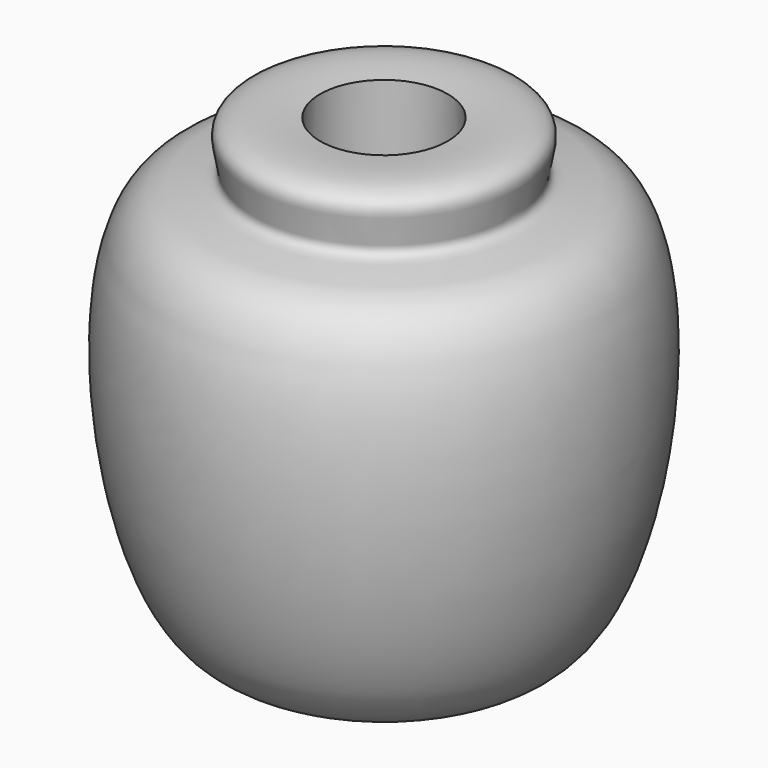
from build123d import *


with BuildPart() as f1:
    # F0 (on Front) → F1 (revolve)
    with BuildSketch(Plane.XZ):
        with BuildLine():
            add(Edge.make_bspline(
                [(9.1070549706, 64.3952809365), (14.3228379657, 64.9506357353), (21.7110111792, 64.7788836534), (15.5951037645, 54.4159054557), (37.2126854418, 60.1001904371), (31.9440741633, 0.3207276176), (16.93260613, -2.682631302), (11.164166413, -2.0849040041)],
                knots=[0.0686910995, 0.0686910995, 0.0686910995, 0.0686910995, 0.1970036254, 0.3057201577, 0.4525303585, 0.7725252735, 0.9165089584, 0.9165089584, 0.9165089584, 0.9165089584], degree=3))
            Line((9.1070549706, 64.3952809365), (11.164166413, -2.0849040041))
        make_face()
    revolve(axis=Axis((0, 0, 31.5632373291), (0, 0, -1)))


solid = f1.part
